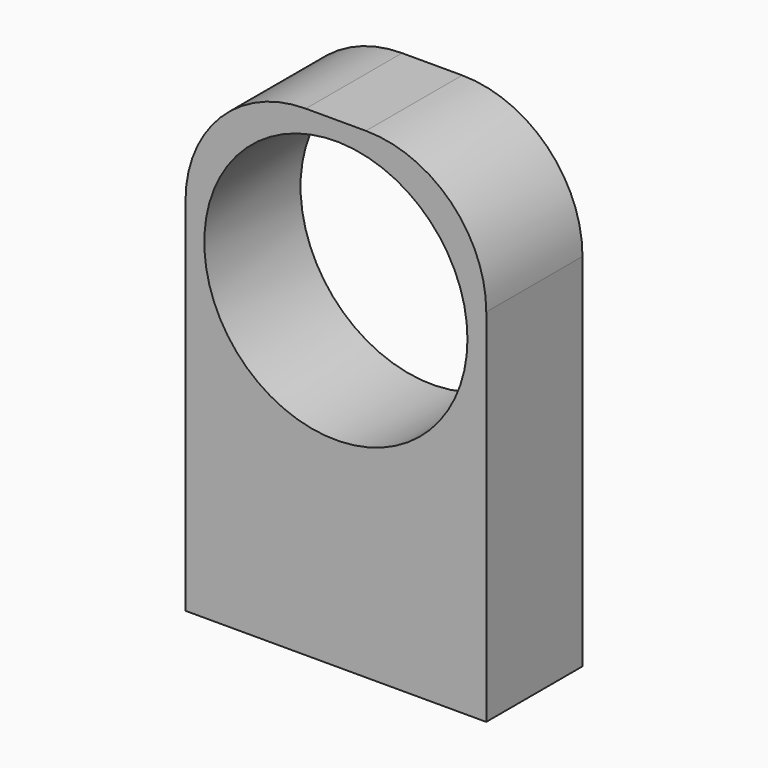
from build123d import *

# Parameters (mm, degrees)
F0_W     = 12.7
F0_H     = 5.08
F1_DEPTH = 7.62
F2_W     = 12.7
F2_H     = 5.08
F3_DEPTH = 12.7
F4_R     = 5.55625
F5_DEPTH = 25.4
F6_R     = 5.08


with BuildPart() as f1:
    # F0 (on Top) → F1 (new body)
    with BuildSketch(Plane.XY):
        with Locations((-86.055439, 58.905405)):
            Rectangle(F0_W, F0_H)
    extrude(amount=F1_DEPTH)

    # F2 (on face) → F3 (join)
    with BuildSketch(Plane.XY.offset(7.62)):
        with Locations((-86.055439, 58.905405)):
            Rectangle(F2_W, F2_H)
    extrude(amount=F3_DEPTH)

    # F4 (on face) → F5 (cut)
    with BuildSketch(Plane.XZ.offset(-56.365405)):
        with Locations((-86.055439, 13.97)):
            Circle(F4_R)
    extrude(amount=-F5_DEPTH, mode=Mode.SUBTRACT)

    # F6
    f6_edges = [f1.edges().sort_by_distance(p)[0] for p in [
        (-92.405439, 58.905405, 20.32),
        (-79.705439, 58.905405, 20.32),
    ]]
    fillet(f6_edges, radius=F6_R)


solid = f1.part
